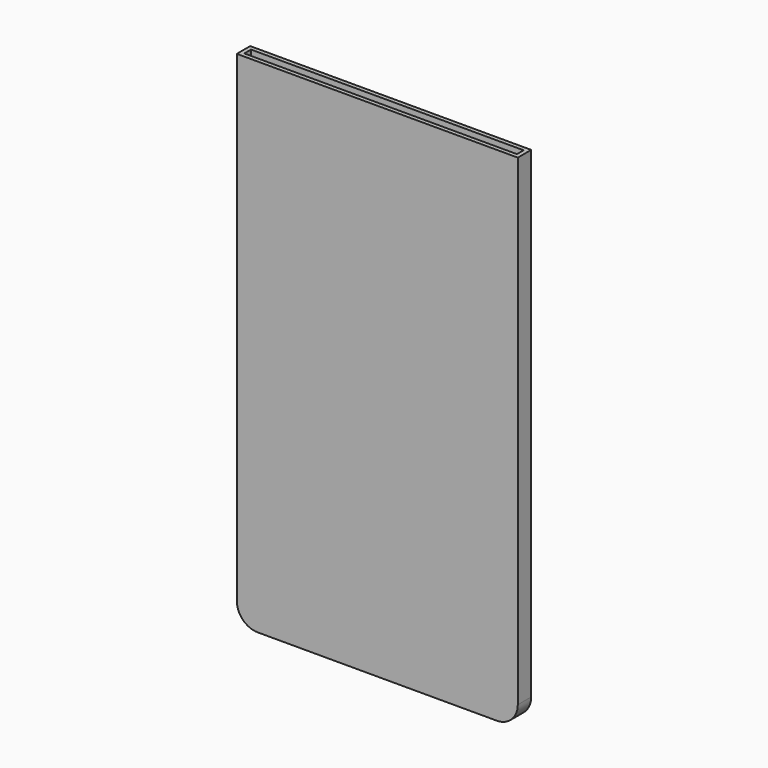
from build123d import *

# Parameters (mm, degrees)
F0_W     = 67.1
F0_H     = 120
F1_DEPTH = 4
F2_R     = 5
F3_T     = -1


with BuildPart() as f1:
    # F0 (on Front) → F1 (new body)
    with BuildSketch(Plane.XZ):
        Rectangle(F0_W, F0_H)
    extrude(amount=F1_DEPTH)

    # F2
    f2_edges = [f1.edges().sort_by_distance(p)[0] for p in [
        (33.55, -2, -60),
        (-33.55, -2, -60),
    ]]
    fillet(f2_edges, radius=F2_R)

    # F3
    f3_openings = [f1.faces().sort_by_distance(p)[0] for p in [
        (0, -2, 60),
    ]]
    offset(amount=F3_T, openings=f3_openings)


solid = f1.part
